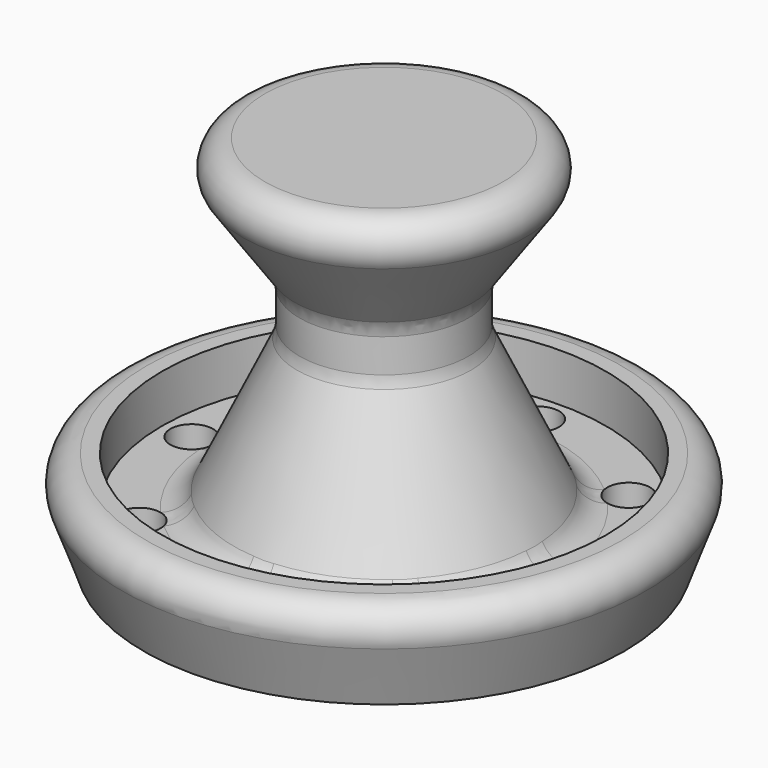
from build123d import *

# Parameters (mm, degrees)
F2_R     = 4
F3_DEPTH = 70.001
F4_R     = 5


with BuildPart() as f1:
    # F0 (on Front) → F1 (revolve)
    with BuildSketch(Plane.XZ):
        Polygon((-45, 0), (0, 0), (0, 70), (-31.926143, 70), (-15.821369, 47), (-15.821369, 38), (-29.551464, 9), (-41.551464, 9), (-41.551464, 18), (-51.551464, 18), align=None)
    revolve(axis=Axis((0, 0, 35), (0, 0, 1)))

    # F2 (on face) → F3 (cut, through all)
    with BuildSketch(Plane(origin=(0, 0, 0), x_dir=(1, 0, 0), z_dir=(0, 0, -1))):
        with Locations((-36, 0)):
            Circle(F2_R)
        with Locations((-25.455844, -25.455844)):
            Circle(F2_R)
        with Locations((0, -36)):
            Circle(F2_R)
        with Locations((25.455844, -25.455844)):
            Circle(F2_R)
        with Locations((36, 0)):
            Circle(F2_R)
        with Locations((25.455844, 25.455844)):
            Circle(F2_R)
        with Locations((0, 36)):
            Circle(F2_R)
        with Locations((-25.455844, 25.455844)):
            Circle(F2_R)
    extrude(amount=-F3_DEPTH, mode=Mode.SUBTRACT)

    # F4
    f4_edges = [f1.edges().sort_by_distance(p)[0] for p in [
        (31.926143, 0, 70),
        (51.551464, 0, 18),
        (15.821369, 0, 47),
        (15.821369, 0, 38),
        (29.551464, 0, 9),
    ]]
    fillet(f4_edges, radius=F4_R)


solid = f1.part
